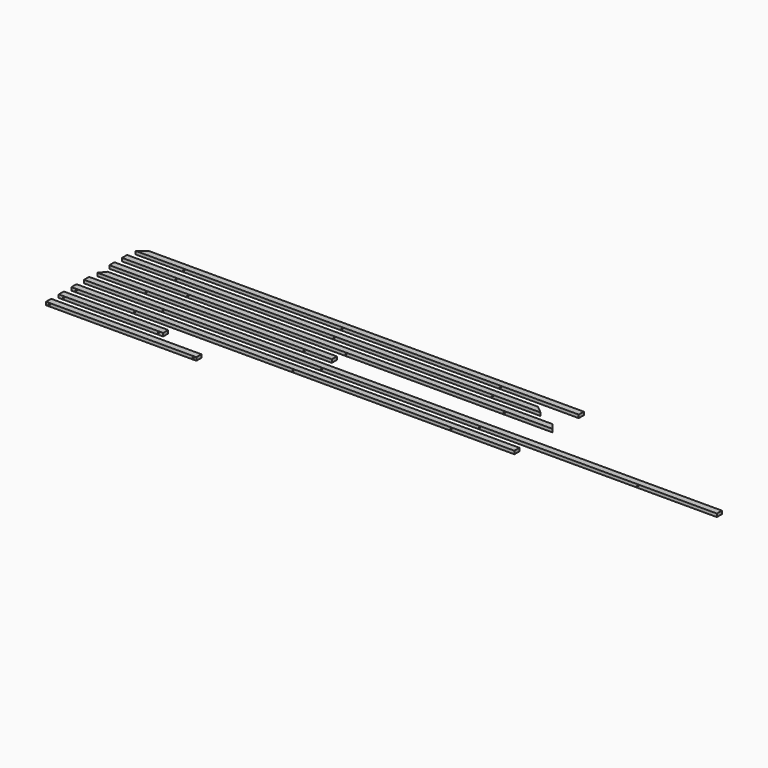
from build123d import *

# Parameters (mm, degrees)
F0_W            = 40
F0_H            = 20
F1_DEPTH        = 2807
F3_DEPTH        = 20.001
F5_D            = 4
F5_CSINK_D      = 8
F5_CSINK_ANGLE  = 90
F6_DEPTH        = 2652
F8_DEPTH        = 20.001
F10_D           = 4
F10_CSINK_D     = 8
F10_CSINK_ANGLE = 90
F11_DEPTH       = 2807
F13_DEPTH       = 25
F15_D           = 4
F15_CSINK_D     = 8
F15_CSINK_ANGLE = 90
F16_DEPTH       = 1486
F18_DEPTH       = 20.001
F20_D           = 4
F20_CSINK_D     = 8
F20_CSINK_ANGLE = 90
F21_DEPTH       = 4000
F23_D           = 4
F23_CSINK_D     = 8
F23_CSINK_ANGLE = 90
F24_DEPTH       = 2800
F26_D           = 4
F26_CSINK_D     = 8
F26_CSINK_ANGLE = 90
F27_DEPTH       = 660
F29_D           = 4
F29_CSINK_D     = 8
F29_CSINK_ANGLE = 90
F30_DEPTH       = 950
F32_D           = 4
F32_CSINK_D     = 8
F32_CSINK_ANGLE = 90


with BuildPart() as f1:
    # F0 (on Right) → F1 (new body)
    with BuildSketch(Plane.YZ):
        with Locations((-20, 10)):
            Rectangle(F0_W, F0_H)
    extrude(amount=F1_DEPTH)

    # F2 (on face) → F3 (cut, through all)
    with BuildSketch(Plane.XY.offset(20)):
        Polygon((49.3958862614, 0), (0, 0), (0, -40), (6.3560629163, -40), (55.7519491777, 0), align=None)
    extrude(amount=-F3_DEPTH, mode=Mode.SUBTRACT)

    # F5 (through all)
    with Locations(Plane.XZ.offset(40)):
        with Locations((2311, 10), (1311, 10), (311, 10)):
            CounterSinkHole(F5_D / 2, F5_CSINK_D / 2, counter_sink_angle=F5_CSINK_ANGLE)


with BuildPart() as f6:
    # F0 (on Right) → F6 (new body)
    with BuildSketch(Plane.YZ):
        with Locations((-120, 10)):
            Rectangle(F0_W, F0_H)
    extrude(amount=F6_DEPTH)

    # F7 (on face) → F8 (cut, through all)
    with BuildSketch(Plane.XY.offset(20)):
        Polygon((2645.6439370837, -140), (2652, -140), (2652, -100), (2602.6041137386, -100), (2596.2480508223, -100), align=None)
    extrude(amount=-F8_DEPTH, mode=Mode.SUBTRACT)

    # F10 (through all)
    with Locations(Plane.XZ.offset(140)):
        with Locations((2340.6439370837, 10), (1340.6439370837, 10), (340.6439370837, 10)):
            CounterSinkHole(F10_D / 2, F10_CSINK_D / 2, counter_sink_angle=F10_CSINK_ANGLE)


with BuildPart() as f11:
    # F0 (on Right) → F11 (new body)
    with BuildSketch(Plane.YZ):
        with Locations((-220, 10)):
            Rectangle(F0_W, F0_H)
    extrude(amount=F11_DEPTH)

    # F12 (on face) → F13 (cut)
    with BuildSketch(Plane.XY.offset(20)):
        Polygon((2801.8529617364, -240), (2807, -240), (2807, -200), (2774.6086386722, -200), (2769.4616004086, -200), align=None)
    extrude(amount=-F13_DEPTH, mode=Mode.SUBTRACT)

    # F15 (through all)
    with Locations(Plane.XZ.offset(240)):
        with Locations((496, 10), (1496, 10), (2496, 10)):
            CounterSinkHole(F15_D / 2, F15_CSINK_D / 2, counter_sink_angle=F15_CSINK_ANGLE)


with BuildPart() as f16:
    # F0 (on Right) → F16 (new body)
    with BuildSketch(Plane.YZ):
        with Locations((-320, 10)):
            Rectangle(F0_W, F0_H)
    extrude(amount=F16_DEPTH)

    # F17 (on face) → F18 (cut, through all)
    with BuildSketch(Plane.XY.offset(20)):
        Polygon((0, -300), (0, -340), (5.1470382636, -340), (37.5383995914, -300), (32.3913613278, -300), align=None)
    extrude(amount=-F18_DEPTH, mode=Mode.SUBTRACT)

    # F20 (through all)
    with Locations(Plane.XZ.offset(340)):
        with Locations((311.1470382636, 10), (1311.1470382636, 10)):
            CounterSinkHole(F20_D / 2, F20_CSINK_D / 2, counter_sink_angle=F20_CSINK_ANGLE)


with BuildPart() as f21:
    # F0 (on Right) → F21 (new body)
    with BuildSketch(Plane.YZ):
        with Locations((-420, 10)):
            Rectangle(F0_W, F0_H)
    extrude(amount=F21_DEPTH)

    # F23 (through all)
    with Locations(Plane.XZ.offset(440)):
        with Locations((500, 10), (1500, 10), (2500, 10), (3500, 10)):
            CounterSinkHole(F23_D / 2, F23_CSINK_D / 2, counter_sink_angle=F23_CSINK_ANGLE)


with BuildPart() as f24:
    # F0 (on Right) → F24 (new body)
    with BuildSketch(Plane.YZ):
        with Locations((-520, 10)):
            Rectangle(F0_W, F0_H)
    extrude(amount=F24_DEPTH)

    # F26 (through all)
    with Locations(Plane.XZ.offset(540)):
        with Locations((30, 10), (400, 10), (1400, 10), (2400, 10)):
            CounterSinkHole(F26_D / 2, F26_CSINK_D / 2, counter_sink_angle=F26_CSINK_ANGLE)


with BuildPart() as f27:
    # F0 (on Right) → F27 (new body)
    with BuildSketch(Plane.YZ):
        with Locations((-620, 10)):
            Rectangle(F0_W, F0_H)
    extrude(amount=F27_DEPTH)

    # F29 (through all)
    with Locations(Plane.XZ.offset(640)):
        with Locations((630, 10), (30, 10)):
            CounterSinkHole(F29_D / 2, F29_CSINK_D / 2, counter_sink_angle=F29_CSINK_ANGLE)


with BuildPart() as f30:
    # F0 (on Right) → F30 (new body)
    with BuildSketch(Plane.YZ):
        with Locations((-720, 10)):
            Rectangle(F0_W, F0_H)
    extrude(amount=F30_DEPTH)

    # F32 (through all)
    with Locations(Plane.XZ.offset(740)):
        with Locations((20, 10), (930, 10)):
            CounterSinkHole(F32_D / 2, F32_CSINK_D / 2, counter_sink_angle=F32_CSINK_ANGLE)


solid = Compound([f1.part, f6.part, f11.part, f16.part, f21.part, f24.part, f27.part, f30.part])
